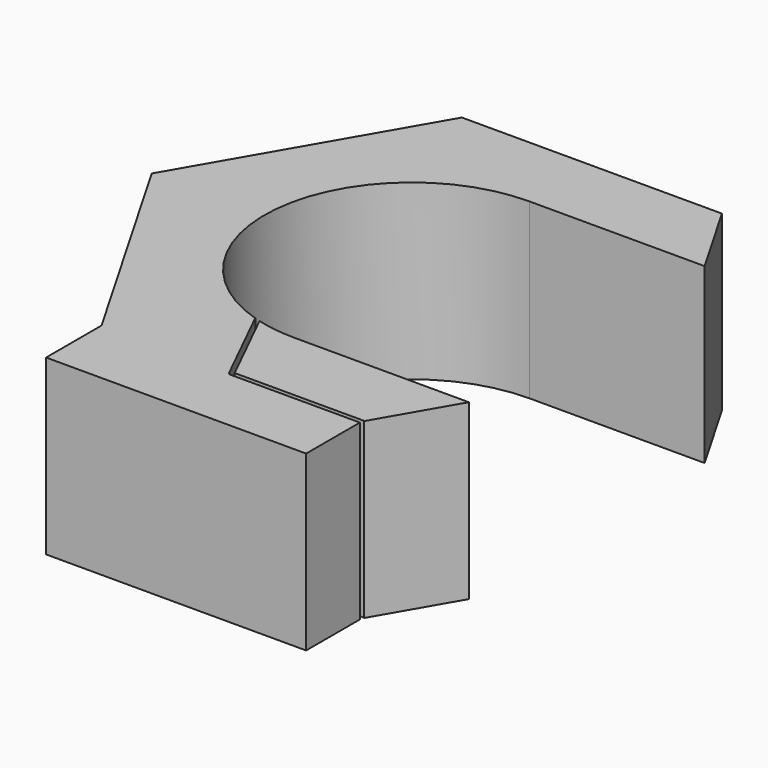
from build123d import *

# Parameters (mm, degrees)
F1_DEPTH = 20
F3_DEPTH = 25


with BuildPart() as f1:
    # F0 (on Top) → F1 (new body)
    with BuildSketch(Plane.XY):
        with BuildLine():
            Line((15, 25.9807621135), (-15, 25.9807621135))
            Line((-15, 25.9807621135), (-30, 0))
            Line((-30, 0), (-15, -25.9807621135))
            Line((-15, -25.9807621135), (-15, -33.9807621135))
            Line((-15, -33.9807621135), (15, -33.9807621135))
            Line((15, -33.9807621135), (15, -25.9807621135))
            Line((15, -25.9807621135), (20.1850454238, -17))
            Line((20.1850454238, -17), (0, -17))
            ThreePointArc((0, -17), (-17, 0), (0, 17))
            Line((0, 17), (20.1850454238, 17))
            Line((20.1850454238, 17), (15, 25.9807621135))
        make_face()
    extrude(amount=F1_DEPTH)

    # F2 (on face) → F3 (cut)
    with BuildSketch(Plane.XY.offset(20)):
        with BuildLine():
            ThreePointArc((0, -26.2307621135), (0.1767766953, -26.1575388088), (0.25, -25.9807621135))
            Line((0.25, -25.9807621135), (0, -25.9807621135))
            Line((0, -25.9807621135), (-0.1104495459, -25.756483497))
            ThreePointArc((-0.1104495459, -25.756483497), (-0.2366885535, -25.9002728058), (-0.2242786165, -26.0912116594))
            ThreePointArc((-0.2242786165, -26.0912116594), (-0.1320750043, -26.1930265553), (0, -26.2307621135))
        make_face()
        with BuildLine():
            Line((0, -25.9807621135), (0.25, -25.9807621135))
            ThreePointArc((0.25, -25.9807621135), (0.2434847574, -25.9240596185), (0.2242786165, -25.8703125677))
            Line((0.2242786165, -25.8703125677), (0.155554792, -25.7307621135))
            Line((0.155554792, -25.7307621135), (0, -25.7307621135))
            ThreePointArc((0, -25.7307621135), (-0.056702495, -25.7372773562), (-0.1104495459, -25.756483497))
            Line((-0.1104495459, -25.756483497), (0, -25.9807621135))
        make_face()
        with BuildLine():
            ThreePointArc((0.2242786165, -25.8703125677), (0.2434847574, -25.9240596185), (0.25, -25.9807621135))
            ThreePointArc((0.25, -25.9807621135), (0.1767766953, -26.1575388088), (0, -26.2307621135))
            Line((0, -26.2307621135), (15, -26.2307621135))
            ThreePointArc((15, -26.2307621135), (15.25, -25.9807621135), (15, -25.7307621135))
            Line((15, -25.7307621135), (0.155554792, -25.7307621135))
            Line((0.155554792, -25.7307621135), (0.2242786165, -25.8703125677))
        make_face()
        with BuildLine():
            ThreePointArc((-0.2242786165, -26.0912116594), (-0.2366885535, -25.9002728058), (-0.1104495459, -25.756483497))
            ThreePointArc((-0.1104495459, -25.756483497), (-0.056702495, -25.7372773562), (0, -25.7307621135))
            Line((0, -25.7307621135), (0.155554792, -25.7307621135))
            Line((0.155554792, -25.7307621135), (-4.5329129602, -16.2103693154))
            ThreePointArc((-4.5329129602, -16.2103693154), (-4.8676411226, -16.0965402448), (-4.9814701932, -16.4312684071))
            Line((-4.9814701932, -16.4312684071), (-0.2242786165, -26.0912116594))
        make_face()
    extrude(amount=-F3_DEPTH, mode=Mode.SUBTRACT)


solid = f1.part
